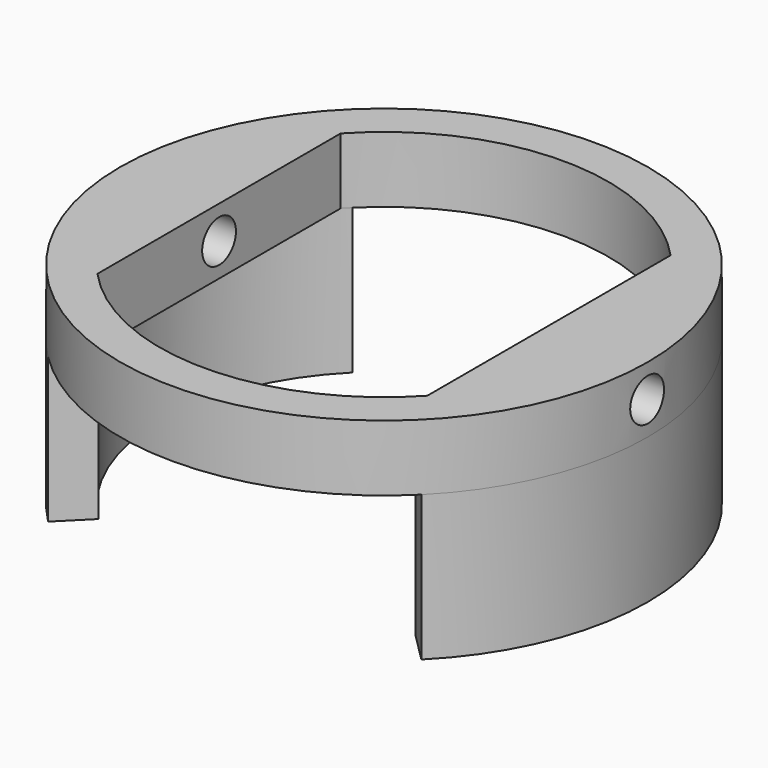
from build123d import *

# Parameters (mm, degrees)
SKETCH044_R     = 20
PAD021_DEPTH    = 5
PAD022_DEPTH    = 11
SKETCH051_R     = 1.6
POCKET019_DEPTH = 7.501
SKETCH052_R     = 1.6
POCKET020_DEPTH = 7.501


with BuildPart() as part:
    # Sketch044 (on Face2 of Binder009) → Pad021 (new body)
    with BuildSketch(Plane(origin=(0, 0, 15), x_dir=(-1, 0, 0), z_dir=(0, 0, 1))):
        Circle(SKETCH044_R)
        with BuildLine():
            Line((12.5, 11.521719), (12.5, -11.521719))
            ThreePointArc((-12.5, -11.521719), (0, -17), (12.5, -11.521719))
            Line((-12.5, 11.521719), (-12.5, -11.521719))
            ThreePointArc((12.5, 11.521719), (0, 17), (-12.5, 11.521719))
        make_face(mode=Mode.SUBTRACT)
    extrude(amount=PAD021_DEPTH)

    # Sketch045 (on Face6 of Pad021) → Pad022 (join)
    with BuildSketch(Plane(origin=(0, 0, 15), x_dir=(1, 0, 0), z_dir=(0, 0, -1))):
        with BuildLine():
            ThreePointArc((-14.142136, 14.142136), (-20, 3e-06), (-14.14214, -14.142131))
            Line((-14.14214, -14.142131), (-12.020819, -12.020811))
            ThreePointArc((-12.020815, 12.020815), (-17, 3e-06), (-12.020819, -12.020811))
            Line((-14.142136, 14.142136), (-12.020815, 12.020815))
        make_face()
        with BuildLine():
            ThreePointArc((14.142136, -14.142136), (20, -3e-06), (14.14214, 14.142131))
            Line((14.14214, 14.142131), (12.020819, 12.020811))
            ThreePointArc((12.020815, -12.020815), (17, -3e-06), (12.020819, 12.020811))
            Line((14.142136, -14.142136), (12.020815, -12.020815))
        make_face()
    extrude(amount=PAD022_DEPTH)

    # Sketch051 (on Face2 of Pad021) → Pocket019 (cut, through all)
    with BuildSketch(Plane.YZ.offset(-12.5)):
        with Locations((0, 17.5)):
            Circle(SKETCH051_R)
    extrude(amount=-POCKET019_DEPTH, mode=Mode.SUBTRACT)

    # Sketch052 (on Face12 of Pocket019) → Pocket020 (cut, through all)
    with BuildSketch(Plane(origin=(12.5, 0, 0), x_dir=(0, -1, 0), z_dir=(-1, 0, 0))):
        with Locations((0, 17.5)):
            Circle(SKETCH052_R)
    extrude(amount=-POCKET020_DEPTH, mode=Mode.SUBTRACT)


solid = part.part
